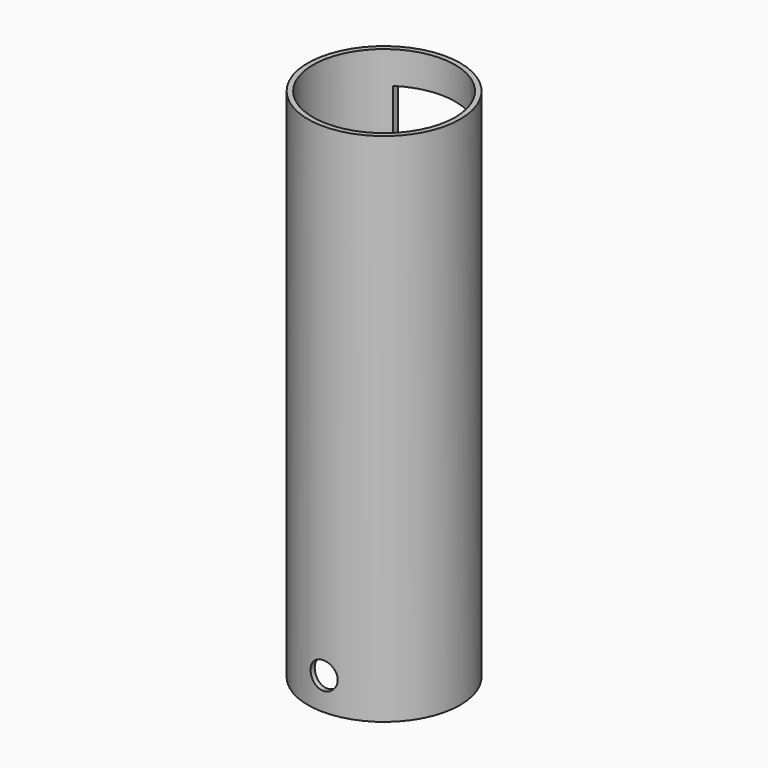
from build123d import *

# Parameters (mm, degrees)
F0_R          = 11.25
F0_R_2        = 10.5
F1_DEPTH      = 76.2
F2_W          = 11.43
F2_H          = 20.6375
F3_DEPTH      = 25.4
F5_DEPTH      = 25.4
F5_DEPTH_BACK = 25.4


with BuildPart() as f1:
    # F0 (on Top) → F1 (new body)
    with BuildSketch(Plane.XY):
        Circle(F0_R)
        Circle(F0_R_2, mode=Mode.SUBTRACT)
    extrude(amount=F1_DEPTH)

    # F2 (on Front) → F3 (cut)
    with BuildSketch(Plane.XZ):
        with Locations((0, 61.11875)):
            Rectangle(F2_W, F2_H)
    extrude(amount=-F3_DEPTH, mode=Mode.SUBTRACT)

    # F4 (on Front) → F5 (cut, two sides)
    with BuildSketch(Plane.XZ) as f5_sk:
        with BuildLine():
            ThreePointArc((0, 2.7625), (1.4142135624, 3.3482864376), (2, 4.7625))
            ThreePointArc((2, 4.7625), (-1.4142135624, 6.1767135624), (0, 2.7625))
        make_face()
    extrude(amount=-F5_DEPTH, mode=Mode.SUBTRACT)
    extrude(f5_sk.sketch, amount=F5_DEPTH_BACK, mode=Mode.SUBTRACT)


solid = f1.part
